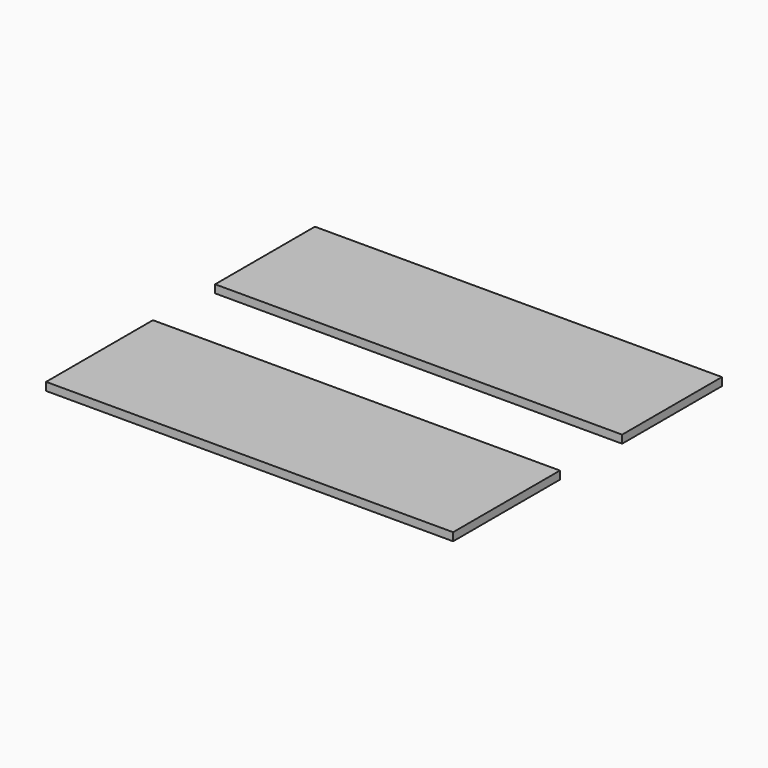
from build123d import *

# Parameters (mm, degrees)
F0_W     = 76.042794
F0_H     = 23.30175
F0_H_2   = 24.949654
F1_DEPTH = 1.5


with BuildPart() as f1:
    # F0 (on Top) → F1 (new body)
    with BuildSketch(Plane.XY):
        with Locations((0, 38.649395)):
            Rectangle(F0_W, F0_H)
        Rectangle(F0_W, F0_H_2)
    extrude(amount=F1_DEPTH)


solid = f1.part
